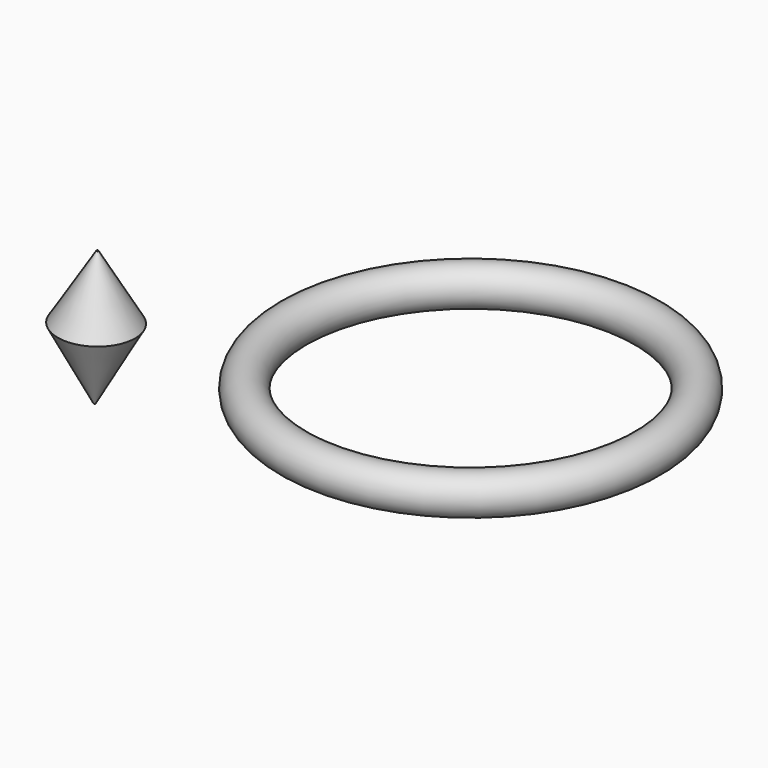
from build123d import *

# Parameters (mm, degrees)
F0_R = 6.35


with BuildPart() as f1:
    # F0 (on Front) → F1 (revolve)
    with BuildSketch(Plane.XZ):
        with Locations((9.536643045, 2.1287314727)):
            Circle(F0_R)
    revolve(axis=Axis((66.686643045, 0, -24.1258940659), (0, 0, -1)))


with BuildPart() as f3:
    # F2 (on Front) → F3 (revolve)
    with BuildSketch(Plane.XZ):
        Polygon((-40.4489114881, 44.7807572782), (-52.3513406515, 65.7377615571), (-53.2549656928, 22.0126602799), align=None)
    revolve(axis=Axis((-53.0772024647, 0, 44.4563360529), (-0.0206616363, 0, -0.9997865256)))


with BuildPart() as f3_1:
    # F4: moved
    add(f3.part.moved(Location((-1.3172619616, 0, -63.7403901535))))


solid = Compound([f1.part, f3_1.part])
